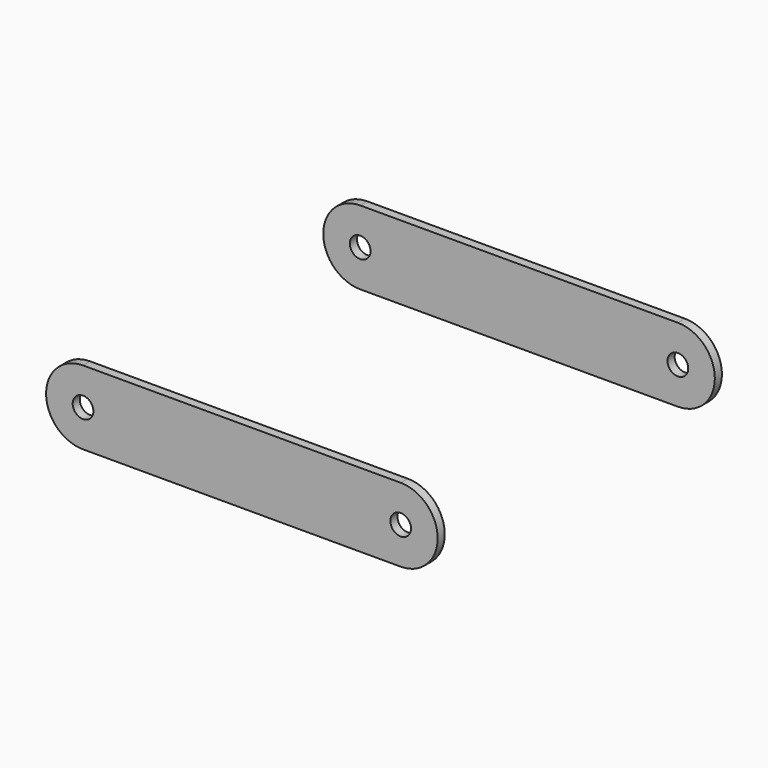
from build123d import *

# Parameters (mm, degrees)
SKETCH010_R  = 7
PAD004_DEPTH = 6


with BuildPart() as body003:
    # Sketch010 → Pad004 (new body)
    with BuildSketch(Plane.XZ):
        with BuildLine():
            Line((0, 25), (215, 25))
            ThreePointArc((215, -25), (240, 0), (215, 25))
            Line((215, -25), (0, -25))
            ThreePointArc((0, 25), (-25, 0), (0, -25))
        make_face()
        Circle(SKETCH010_R, mode=Mode.SUBTRACT)
        with Locations((215, 0)):
            Circle(SKETCH010_R, mode=Mode.SUBTRACT)
    extrude(amount=PAD004_DEPTH)


with BuildPart() as body003_1:
    # Body003 placement: moved
    add(body003.part.moved(Location((0, -114.25, 0))))


with BuildPart() as linkplate:
    # Mirror003: instance of Body003
    add(body003_1.part.mirror(Plane(origin=(-500, 0, 0), x_dir=(-1, 0, 0), z_dir=(0, -1, 0))))

    # Fusion015: union Body003
    add(body003_1.part)


solid = linkplate.part
